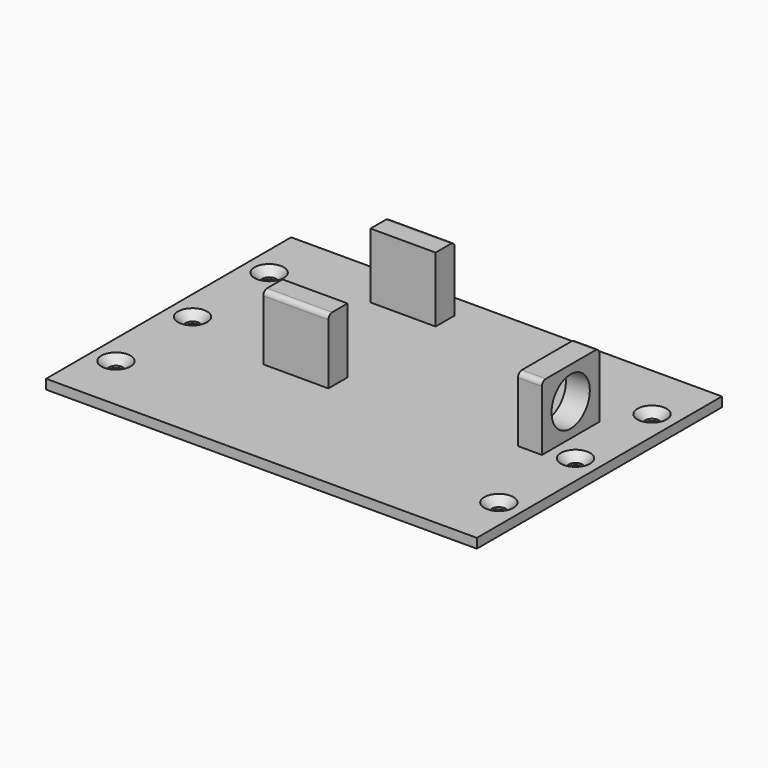
from build123d import *

# Parameters (mm, degrees)
SKETCH_W         = 90
SKETCH_H         = 64
PAD_DEPTH        = 2
HOLE_D           = 2.9
HOLE_DEPTH       = 25
HOLE_CSINK_D     = 6.1
HOLE_CSINK_ANGLE = 90
SKETCH002_W      = 13.6
SKETCH002_H      = 5
SKETCH002_W_2    = 5
SKETCH002_H_2    = 15
PAD001_DEPTH     = 13.6
SKETCH003_R      = 0.8
HOLE001_DEPTH    = 8
HOLE001_TIPS_R   = 0.8
SKETCH004_R      = 5
HOLE002_DEPTH    = 5
HOLE002_TIPS_R   = 5
FILLET_R         = 1


with BuildPart() as part:
    # Sketch → Pad (new body)
    with BuildSketch(Plane.XY):
        Rectangle(SKETCH_W, SKETCH_H)
    extrude(amount=PAD_DEPTH)

    # Hole
    with Locations(Plane.XY.offset(2)):
        with Locations((-40, 20), (-40, 0), (-40, -20), (40, 20), (40, 0), (40, -20)):
            CounterSinkHole(HOLE_D / 2, HOLE_CSINK_D / 2, depth=HOLE_DEPTH, counter_sink_angle=HOLE_CSINK_ANGLE)

    # Sketch002 (on Face6 of Pad) → Pad001 (join)
    with BuildSketch(Plane.XY.offset(2)):
        with Locations((-13.7, 24.6)):
            Rectangle(SKETCH002_W, SKETCH002_H)
        with Locations((-13.7, -3.4)):
            Rectangle(SKETCH002_W, SKETCH002_H)
        with Locations((32.5, 5)):
            Rectangle(SKETCH002_W_2, SKETCH002_H_2)
    extrude(amount=PAD001_DEPTH)

    # Sketch003 (on Face15 of Pad001) → Hole001 (cut)
    with BuildSketch(Plane(origin=(-20.5, 0, 0), x_dir=(0, -1, 0), z_dir=(-1, 0, 0))):
        with Locations((-24.45, 8.8)):
            Circle(SKETCH003_R)
        with Locations((3.25, 8.8)):
            Circle(SKETCH003_R)
    extrude(amount=-HOLE001_DEPTH, mode=Mode.SUBTRACT)

    # Hole001 tips → Hole001 tip 1 section 0
    with BuildSketch(Plane(origin=(-12.5, 0, 0), x_dir=(0, -1, 0), z_dir=(-1, 0, 0)), mode=Mode.PRIVATE) as hole001_tip_1_s0:
        with Locations((-24.45, 8.8)):
            Circle(HOLE001_TIPS_R)
    loft([hole001_tip_1_s0.sketch, Vertex(-12.019312, 24.45, 8.8)], mode=Mode.SUBTRACT)

    # Hole001 tips → Hole001 tip 2 section 0
    with BuildSketch(Plane(origin=(-12.5, 0, 0), x_dir=(0, -1, 0), z_dir=(-1, 0, 0)), mode=Mode.PRIVATE) as hole001_tip_2_s0:
        with Locations((3.25, 8.8)):
            Circle(HOLE001_TIPS_R)
    loft([hole001_tip_2_s0.sketch, Vertex(-12.019312, -3.25, 8.8)], mode=Mode.SUBTRACT)

    # Sketch004 (on Face28 of Hole001) → Hole002 (cut)
    with BuildSketch(Plane.YZ.offset(35)):
        with Locations((5, 8.8)):
            Circle(SKETCH004_R)
    extrude(amount=-HOLE002_DEPTH, mode=Mode.SUBTRACT)

    # Hole002 tips → Hole002 tip 1 section 0
    with BuildSketch(Plane.YZ.offset(30), mode=Mode.PRIVATE) as hole002_tip_1_s0:
        with Locations((5, 8.8)):
            Circle(HOLE002_TIPS_R)
    loft([hole002_tip_1_s0.sketch, Vertex(26.995697, 5, 8.8)], mode=Mode.SUBTRACT)

    # Fillet
    fillet_edges = [part.edges().sort_by_distance(p)[0] for p in [
        (32.5, -2.5, 15.6),
        (32.5, 12.5, 15.6),
        (-13.7, -5.9, 15.6),
        (-13.7, 27.1, 15.6),
    ]]
    fillet(fillet_edges, radius=FILLET_R)


solid = part.part
